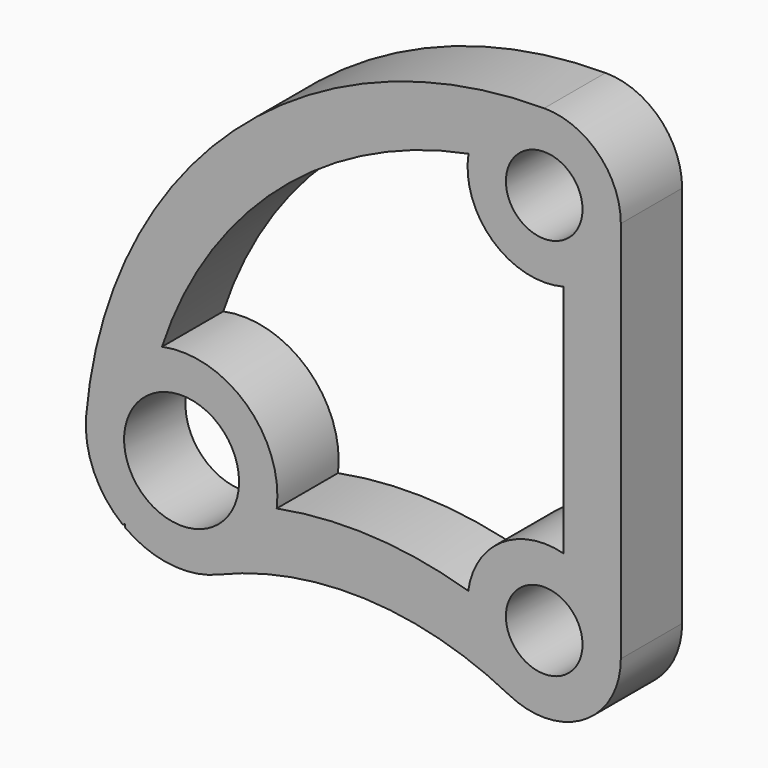
from build123d import *

# Parameters (mm, degrees)
F0_R     = 381
F0_R_2   = 254
F1_DEPTH = 508


with BuildPart() as f1:
    # F0 (on Front) → F1 (new body)
    with BuildSketch(Plane.XZ):
        with BuildLine():
            ThreePointArc((-2158.973337, -375.590953), (-1187.199374, -200.608411), (-232.278772, -451.78598))
            ThreePointArc((-232.278772, -451.78598), (264.63785, -433.625193), (508, 0))
            Line((508, 0), (508, 2540))
            ThreePointArc((508, 2540), (359.210245, 2899.210245), (0, 3048))
            ThreePointArc((0, 3048), (-2059.198953, 2247.221323), (-3036.40144, 265.650704))
            ThreePointArc((-3036.40144, 265.650704), (-2985.916007, -43.438508), (-2793.834553, -290.803896))
            ThreePointArc((-2793.834553, -290.803896), (-2786.832608, -285.981278), (-2779.815325, -281.181006))
            ThreePointArc((-2779.815325, -281.181006), (-2778.685135, -292.13853), (-2777.511752, -303.091513))
            ThreePointArc((-2777.511752, -303.091513), (-2477.740666, -420.375689), (-2158.973337, -375.590953))
        make_face()
        with Locations((-2403.817806, 210.306807)):
            Circle(F0_R, mode=Mode.SUBTRACT)
        Circle(F0_R_2, mode=Mode.SUBTRACT)
        with BuildLine():
            ThreePointArc((127, 491.868885), (-283.700841, 421.399849), (-503.510599, 67.387511))
            ThreePointArc((-503.510599, 67.387511), (-1134.231421, 178.324417), (-1773.214755, 135.709277))
            ThreePointArc((-1773.214755, 135.709277), (-1975.144838, 678.777176), (-2533.95972, 831.827589))
            ThreePointArc((-2533.95972, 831.827589), (-1761.457001, 2002.537948), (-501.76051, 2619.375))
            ThreePointArc((-501.76051, 2619.375), (-341.601016, 2164.004327), (127, 2048.131115))
            Line((127, 2048.131115), (127, 491.868885))
        make_face(mode=Mode.SUBTRACT)
        with Locations((0, 2540)):
            Circle(F0_R_2, mode=Mode.SUBTRACT)
    extrude(amount=F1_DEPTH)


solid = f1.part
